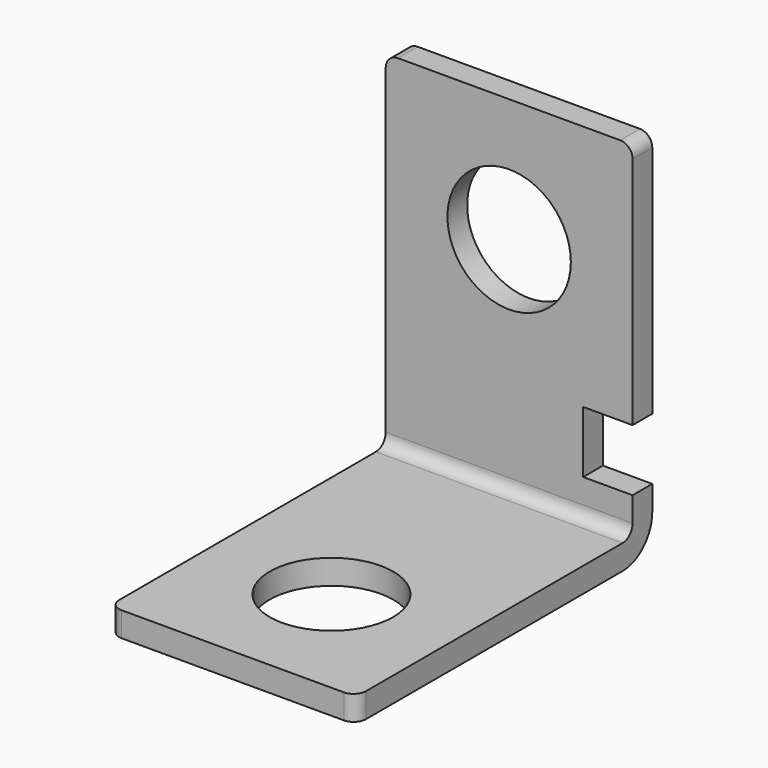
from build123d import *

# Parameters (mm, degrees)
F0_W     = 20
F0_H     = 30
F1_DEPTH = 2
F2_W     = 20
F2_H     = 30
F3_DEPTH = 2
F4_W     = 4
F4_H     = 5
F4_R     = 5
F5_DEPTH = 2.001
F6_R     = 5
F7_DEPTH = 2.001
F8_R     = 1
F9_R     = 3


with BuildPart() as f1:
    # F0 (on Top) → F1 (new body)
    with BuildSketch(Plane.XY):
        Rectangle(F0_W, F0_H)
    extrude(amount=F1_DEPTH)

    # F2 (on face) → F3 (join)
    with BuildSketch(Plane(origin=(0, 15, 0), x_dir=(-1, 0, 0), z_dir=(0, 1, 0))):
        with Locations((0, 15)):
            Rectangle(F2_W, F2_H)
    extrude(amount=-F3_DEPTH)

    # F4 (on face) → F5 (cut, through all)
    with BuildSketch(Plane.XZ.offset(-13)):
        with Locations((8, 7.5)):
            Rectangle(F4_W, F4_H)
        with Locations((0, 20)):
            Circle(F4_R)
    extrude(amount=-F5_DEPTH, mode=Mode.SUBTRACT)

    # F6 (on face) → F7 (cut, through all)
    with BuildSketch(Plane.XY.offset(2)):
        with Locations((0, -5)):
            Circle(F6_R)
    extrude(amount=-F7_DEPTH, mode=Mode.SUBTRACT)

    # F8
    f8_edges = [f1.edges().sort_by_distance(p)[0] for p in [
        (-10, -15, 1),
        (10, -15, 1),
        (10, 14, 30),
        (-10, 14, 30),
        (0, 13, 2),
    ]]
    fillet(f8_edges, radius=F8_R)

    # F9
    f9_edges = [f1.edges().sort_by_distance(p)[0] for p in [
        (0, 15, 0),
    ]]
    fillet(f9_edges, radius=F9_R)


solid = f1.part
